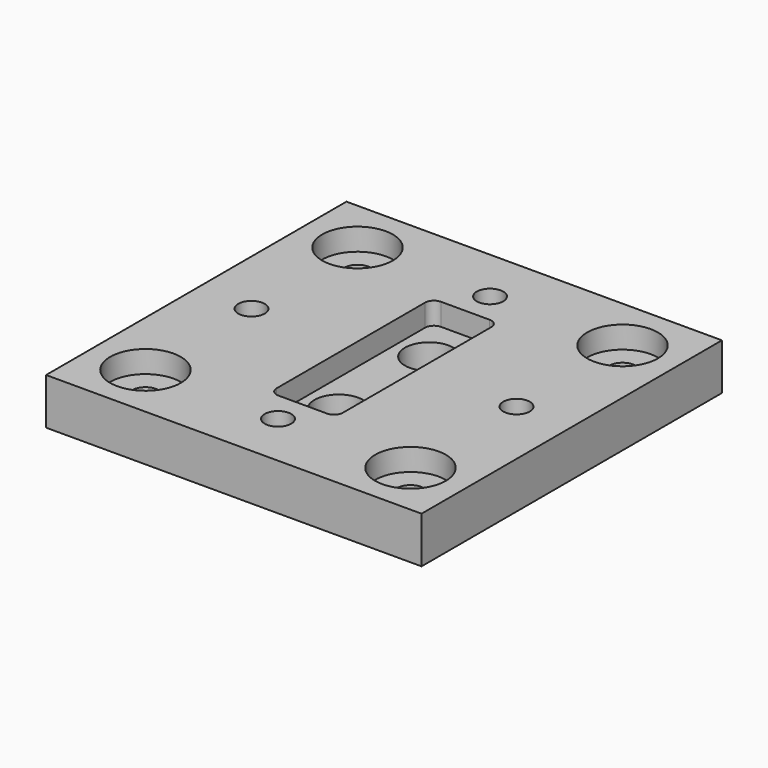
from build123d import *

# Parameters (mm, degrees)
F0_W      = 85
F0_H      = 85
F1_DEPTH  = 10.5
F2_R      = 5.5
F3_DEPTH  = 10.501
F5_DEPTH  = 5
F6_R      = 8
F7_DEPTH  = 5
F8_D      = 6
F10_DEPTH = 5
F11_R     = 3
F12_DEPTH = 25


with BuildPart() as f1:
    # F0 (on Top) → F1 (new body)
    with BuildSketch(Plane.XY):
        Rectangle(F0_W, F0_H)
    extrude(amount=F1_DEPTH)

    # F2 (on face) → F3 (cut, through all)
    with BuildSketch(Plane.XY.offset(10.5)):
        with Locations((0, 12.8)):
            Circle(F2_R)
        with Locations((0, -12.8)):
            Circle(F2_R)
    extrude(amount=-F3_DEPTH, mode=Mode.SUBTRACT)

    # F4 (on face) → F5 (cut)
    with BuildSketch(Plane.XY.offset(10.5)):
        with BuildLine():
            Line((-5.5, -23), (5.5, -23))
            ThreePointArc((5.5, -23), (6.914214, -22.414214), (7.5, -21))
            Line((7.5, -21), (7.5, 21))
            ThreePointArc((7.5, 21), (6.914214, 22.414214), (5.5, 23))
            Line((5.5, 23), (-5.5, 23))
            ThreePointArc((-5.5, 23), (-6.914214, 22.414214), (-7.5, 21))
            Line((-7.5, 21), (-7.5, -21))
            ThreePointArc((-7.5, -21), (-6.914214, -22.414214), (-5.5, -23))
        make_face()
    extrude(amount=-F5_DEPTH, mode=Mode.SUBTRACT)

    # F6 (on face) → F7 (cut)
    with BuildSketch(Plane.XY.offset(10.5)):
        with Locations((30, 30)):
            Circle(F6_R)
        with Locations((30, -30)):
            Circle(F6_R)
        with Locations((-30, -30)):
            Circle(F6_R)
        with Locations((-30, 30)):
            Circle(F6_R)
    extrude(amount=-F7_DEPTH, mode=Mode.SUBTRACT)

    # F8 (through all)
    with Locations(Plane.XY.offset(10.5)):
        with Locations((-30, -30), (30, -30), (30, 30), (-30, 30)):
            Hole(F8_D / 2)

    # F9 (on face) → F10 (cut)
    with BuildSketch(Plane(origin=(0, 0, 0), x_dir=(1, 0, 0), z_dir=(0, 0, -1))):
        with BuildLine():
            ThreePointArc((35, 3.5), (30, 8.5), (25, 3.5))
            Line((25, 3.5), (25, -3.5))
            ThreePointArc((25, -3.5), (30, -8.5), (35, -3.5))
            Line((35, -3.5), (35, 3.5))
        make_face()
        with BuildLine():
            ThreePointArc((3.5, 25), (8.5, 30), (3.5, 35))
            Line((3.5, 35), (-3.5, 35))
            ThreePointArc((-3.5, 35), (-8.5, 30), (-3.5, 25))
            Line((-3.5, 25), (3.5, 25))
        make_face()
        with BuildLine():
            ThreePointArc((-25, 3.5), (-30, 8.5), (-35, 3.5))
            Line((-35, 3.5), (-35, -3.5))
            ThreePointArc((-35, -3.5), (-30, -8.5), (-25, -3.5))
            Line((-25, -3.5), (-25, 3.5))
        make_face()
        with BuildLine():
            Line((-3.5, -35), (3.5, -35))
            ThreePointArc((3.5, -35), (8.5, -30), (3.5, -25))
            Line((3.5, -25), (-3.5, -25))
            ThreePointArc((-3.5, -25), (-8.5, -30), (-3.5, -35))
        make_face()
    extrude(amount=-F10_DEPTH, mode=Mode.SUBTRACT)

    # F11 (on face) → F12 (cut)
    with BuildSketch(Plane(origin=(0, 0, 0), x_dir=(1, 0, 0), z_dir=(0, 0, -1))):
        with Locations((0, 30)):
            Circle(F11_R)
        with Locations((0, -30)):
            Circle(F11_R)
        with Locations((30, 0)):
            Circle(F11_R)
        with Locations((-30, 0)):
            Circle(F11_R)
    extrude(amount=-F12_DEPTH, mode=Mode.SUBTRACT)


solid = f1.part
